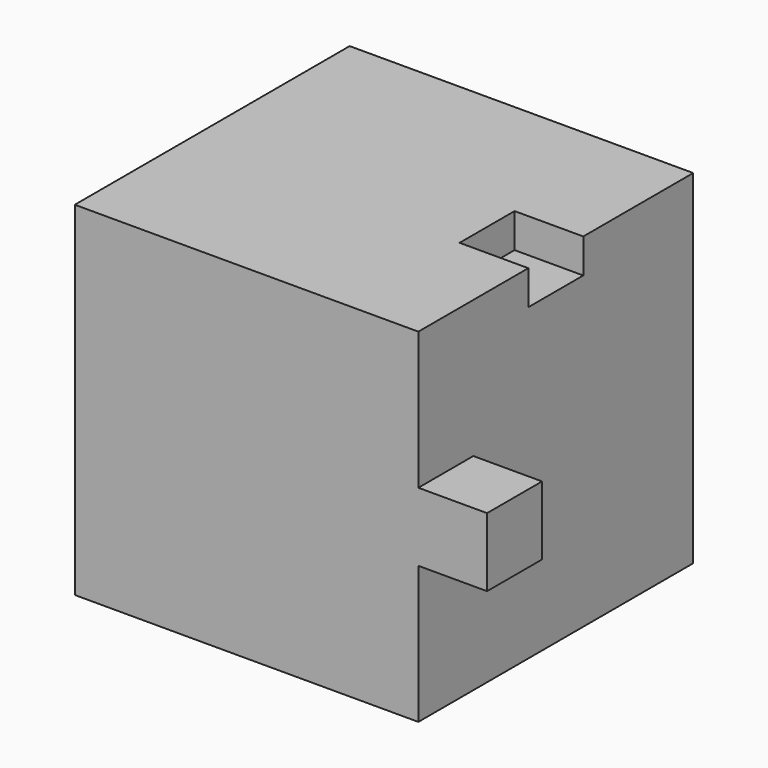
from build123d import *

# Parameters (mm, degrees)
F0_W     = 25
F0_H     = 25
F1_DEPTH = 25
F2_W     = 5
F2_H     = 5
F4_DEPTH = 5
F3_W     = 5
F3_H     = 5
F5_DEPTH = 2.5


with BuildPart() as f1:
    # F0 (on Front) → F1 (new body)
    with BuildSketch(Plane.XZ):
        with Locations((-12.5, 12.5)):
            Rectangle(F0_W, F0_H)
    extrude(amount=F1_DEPTH)

    # F2 (on face) → F4 (join)
    with BuildSketch(Plane.XZ.offset(25)):
        with Locations((2.5, 12.5)):
            Rectangle(F2_W, F2_H)
    extrude(amount=-F4_DEPTH)

    # F3 (on face) → F5 (cut, symmetric)
    with BuildSketch(Plane.XY.offset(25)):
        with Locations((-2.5, -12.5)):
            Rectangle(F3_W, F3_H)
    extrude(amount=F5_DEPTH, both=True, mode=Mode.SUBTRACT)


solid = f1.part
